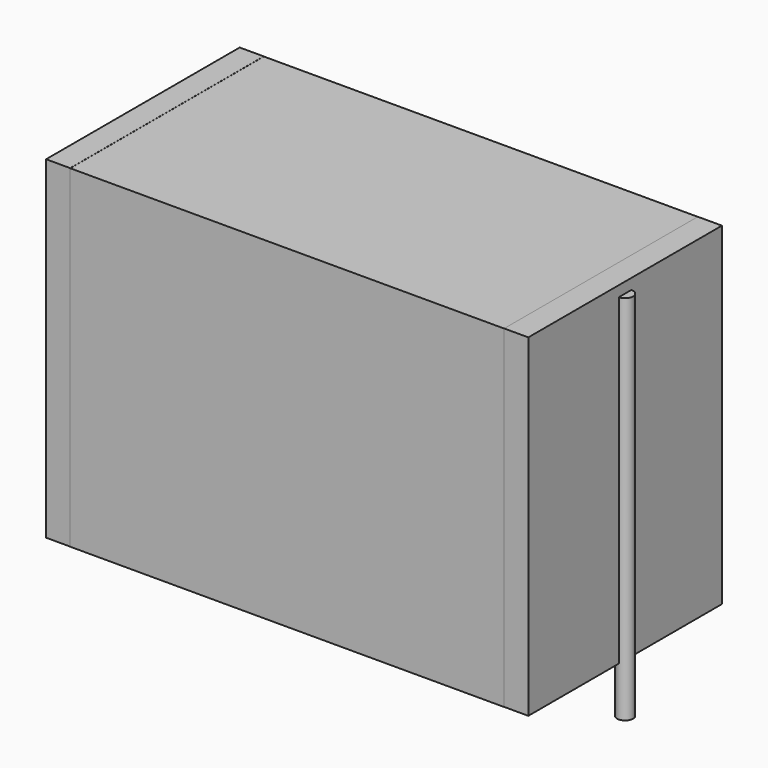
from build123d import *

# Parameters (mm, degrees)
SKETCH_W          = 24.75
SKETCH_H          = 13.8
PAD_DEPTH         = 19
SKETCH001_R       = 0.45
PAD001_DEPTH      = 18
PAD001_DEPTH_BACK = 3.2
SKETCH002_W       = 1.375
SKETCH002_H       = 13.8
PAD002_DEPTH      = 19


with BuildPart() as pad:
    # Sketch → Pad (new body)
    with BuildSketch(Plane.XY.offset(0.1)):
        with Locations((13.75, 0)):
            Rectangle(SKETCH_W, SKETCH_H)
    extrude(amount=PAD_DEPTH)


with BuildPart() as pad001:
    # Sketch001 → Pad001 (new body, two sides)
    with BuildSketch(Plane.XY.offset(0.5)) as pad001_sk:
        Circle(SKETCH001_R)
        with Locations((27.5, 0)):
            Circle(SKETCH001_R)
    extrude(amount=PAD001_DEPTH)
    extrude(pad001_sk.sketch, amount=-PAD001_DEPTH_BACK)


with BuildPart() as pad002:
    # Sketch002 → Pad002 (new body)
    with BuildSketch(Plane.XY.offset(0.105)):
        with Locations((0.6875, 0)):
            Rectangle(SKETCH002_W, SKETCH002_H)
        with Locations((26.8125, 0)):
            Rectangle(SKETCH002_W, SKETCH002_H)
    extrude(amount=PAD002_DEPTH)


solid = Compound([pad.part, pad001.part, pad002.part])
